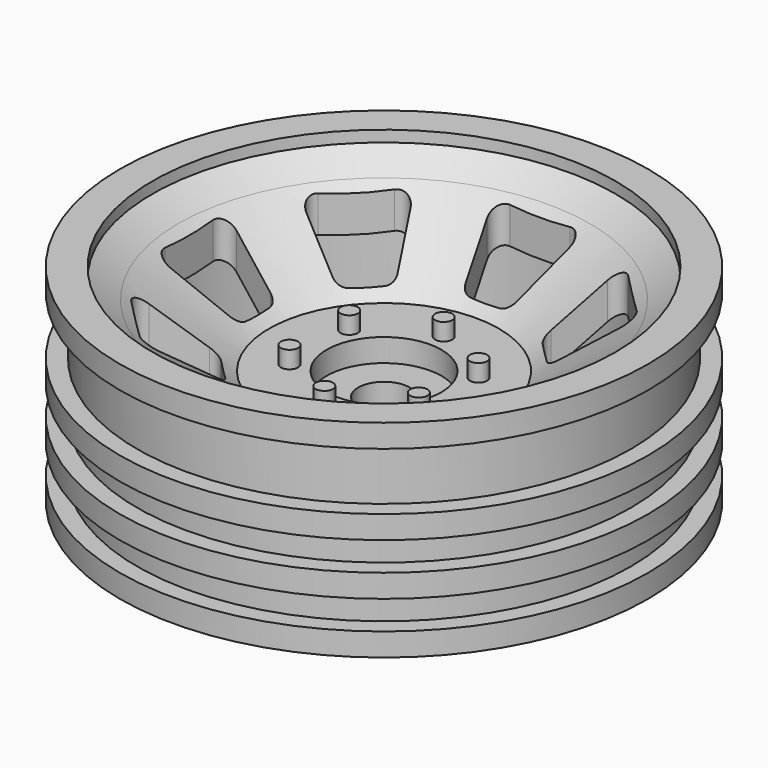
from build123d import *

# Parameters (mm, degrees)
F4_DEPTH   = 43.001
F5_R       = 0.75
F6_DEPTH   = 1.5
F8_DEPTH   = 6
F9_R       = 2.25
F10_DEPTH  = 25
F10_FACE_R = 2.25
F11_DEPTH  = 37.001
F12_R      = 5
F12_R_2    = 2.25
F13_DEPTH  = 2


with BuildPart() as f1:
    # F0 (on Front) → F1 (revolve)
    with BuildSketch(Plane.XZ):
        with BuildLine():
            Line((0, 10), (0, 0))
            Line((0, 0), (10, 0))
            Line((10, 0), (10, 6.548466))
            Line((10, 6.548466), (10, 7.565871))
            Line((10, 7.565871), (11.07605, 7.565871))
            Line((11.07605, 7.565871), (19.185288, 13.166493))
            Line((19.185288, 13.166493), (19.185288, 12.149088))
            Line((19.185288, 12.149088), (19.185288, 0))
            Line((19.185288, 0), (23, 0))
            Line((23, 0), (23, 2))
            Line((23, 2), (21.5, 2))
            Line((21.5, 2), (21.5, 4.5))
            Line((21.5, 4.5), (23, 4.5))
            Line((23, 4.5), (23, 6.5))
            Line((23, 6.5), (21.5, 6.5))
            Line((21.5, 6.5), (21.5, 9))
            Line((21.5, 9), (23, 9))
            Line((23, 9), (23, 11))
            Line((23, 11), (21.5, 11))
            Line((21.5, 11), (21.5, 15.723929))
            ThreePointArc((21.5, 15.723929), (21.580859, 15.919141), (21.776071, 16))
            Line((21.776071, 16), (23, 16))
            Line((23, 16), (23, 18))
            Line((23, 18), (20.165598, 18))
            Line((20.165598, 18), (20.165598, 17.020841))
            Line((20.165598, 17.020841), (17.92377, 15.47253))
            Line((17.92377, 15.47253), (10, 10))
            Line((10, 10), (0, 10))
        make_face()
    revolve(axis=Axis((0, 0, 5), (0, 0, -1)))

    # F3 (on offset) → F4 (cut, through all)
    with BuildSketch(Plane.XY.offset(43)):
        with BuildLine():
            Line((2.612574, 17), (-2.612574, 17))
            ThreePointArc((-2.612574, 17), (-3.423816, 16.58471), (-3.561257, 15.683772))
            Line((-3.561257, 15.683772), (-2.227924, 11.683772))
            ThreePointArc((-2.227924, 11.683772), (-1.863951, 11.188758), (-1.279241, 11))
            Line((-1.279241, 11), (1.279241, 11))
            ThreePointArc((1.279241, 11), (1.863951, 11.188758), (2.227924, 11.683772))
            Line((2.227924, 11.683772), (3.561257, 15.683772))
            ThreePointArc((3.561257, 15.683772), (3.423816, 16.58471), (2.612574, 17))
        make_face()
        with BuildLine():
            Line((-13.608291, 8.571912), (-9.837055, 6.686294))
            ThreePointArc((-9.837055, 6.686294), (-9.229659, 6.593634), (-8.682734, 6.873615))
            Line((-8.682734, 6.873615), (-6.873615, 8.682734))
            ThreePointArc((-6.873615, 8.682734), (-6.593634, 9.229659), (-6.686294, 9.837055))
            Line((-6.686294, 9.837055), (-8.571912, 13.608291))
            ThreePointArc((-8.571912, 13.608291), (-9.306157, 14.148165), (-10.173446, 13.868184))
            Line((-10.173446, 13.868184), (-13.868184, 10.173446))
            ThreePointArc((-13.868184, 10.173446), (-14.148165, 9.306157), (-13.608291, 8.571912))
        make_face()
        with BuildLine():
            Line((-15.683772, -3.561257), (-11.683772, -2.227924))
            ThreePointArc((-11.683772, -2.227924), (-11.188758, -1.863951), (-11, -1.279241))
            Line((-11, -1.279241), (-11, 1.279241))
            ThreePointArc((-11, 1.279241), (-11.188758, 1.863951), (-11.683772, 2.227924))
            Line((-11.683772, 2.227924), (-15.683772, 3.561257))
            ThreePointArc((-15.683772, 3.561257), (-16.58471, 3.423816), (-17, 2.612574))
            Line((-17, 2.612574), (-17, -2.612574))
            ThreePointArc((-17, -2.612574), (-16.58471, -3.423816), (-15.683772, -3.561257))
        make_face()
        with BuildLine():
            Line((-8.571912, -13.608291), (-6.686294, -9.837055))
            ThreePointArc((-6.686294, -9.837055), (-6.593634, -9.229659), (-6.873615, -8.682734))
            Line((-6.873615, -8.682734), (-8.682734, -6.873615))
            ThreePointArc((-8.682734, -6.873615), (-9.229659, -6.593634), (-9.837055, -6.686294))
            Line((-9.837055, -6.686294), (-13.608291, -8.571912))
            ThreePointArc((-13.608291, -8.571912), (-14.148165, -9.306157), (-13.868184, -10.173446))
            Line((-13.868184, -10.173446), (-10.173446, -13.868184))
            ThreePointArc((-10.173446, -13.868184), (-9.306157, -14.148165), (-8.571912, -13.608291))
        make_face()
        with BuildLine():
            Line((3.561257, -15.683772), (2.227924, -11.683772))
            ThreePointArc((2.227924, -11.683772), (1.863951, -11.188758), (1.279241, -11))
            Line((1.279241, -11), (-1.279241, -11))
            ThreePointArc((-1.279241, -11), (-1.863951, -11.188758), (-2.227924, -11.683772))
            Line((-2.227924, -11.683772), (-3.561257, -15.683772))
            ThreePointArc((-3.561257, -15.683772), (-3.423816, -16.58471), (-2.612574, -17))
            Line((-2.612574, -17), (2.612574, -17))
            ThreePointArc((2.612574, -17), (3.423816, -16.58471), (3.561257, -15.683772))
        make_face()
        with BuildLine():
            Line((13.608291, -8.571912), (9.837055, -6.686294))
            ThreePointArc((9.837055, -6.686294), (9.229659, -6.593634), (8.682734, -6.873615))
            Line((8.682734, -6.873615), (6.873615, -8.682734))
            ThreePointArc((6.873615, -8.682734), (6.593634, -9.229659), (6.686294, -9.837055))
            Line((6.686294, -9.837055), (8.571912, -13.608291))
            ThreePointArc((8.571912, -13.608291), (9.306157, -14.148165), (10.173446, -13.868184))
            Line((10.173446, -13.868184), (13.868184, -10.173446))
            ThreePointArc((13.868184, -10.173446), (14.148165, -9.306157), (13.608291, -8.571912))
        make_face()
        with BuildLine():
            Line((15.683772, 3.561257), (11.683772, 2.227924))
            ThreePointArc((11.683772, 2.227924), (11.188758, 1.863951), (11, 1.279241))
            Line((11, 1.279241), (11, -1.279241))
            ThreePointArc((11, -1.279241), (11.188758, -1.863951), (11.683772, -2.227924))
            Line((11.683772, -2.227924), (15.683772, -3.561257))
            ThreePointArc((15.683772, -3.561257), (16.58471, -3.423816), (17, -2.612574))
            Line((17, -2.612574), (17, 2.612574))
            ThreePointArc((17, 2.612574), (16.58471, 3.423816), (15.683772, 3.561257))
        make_face()
        with BuildLine():
            Line((8.571912, 13.608291), (6.686294, 9.837055))
            ThreePointArc((6.686294, 9.837055), (6.593634, 9.229659), (6.873615, 8.682734))
            Line((6.873615, 8.682734), (8.682734, 6.873615))
            ThreePointArc((8.682734, 6.873615), (9.229659, 6.593634), (9.837055, 6.686294))
            Line((9.837055, 6.686294), (13.608291, 8.571912))
            ThreePointArc((13.608291, 8.571912), (14.148165, 9.306157), (13.868184, 10.173446))
            Line((13.868184, 10.173446), (10.173446, 13.868184))
            ThreePointArc((10.173446, 13.868184), (9.306157, 14.148165), (8.571912, 13.608291))
        make_face()
    extrude(amount=-F4_DEPTH, mode=Mode.SUBTRACT)

    # F5 (on face) → F6 (join)
    with BuildSketch(Plane.XY.offset(10)):
        with Locations((0, 6.5)):
            Circle(F5_R)
        with Locations((-5.629165, 3.25)):
            Circle(F5_R)
        with Locations((-5.629165, -3.25)):
            Circle(F5_R)
        with Locations((0, -6.5)):
            Circle(F5_R)
        with Locations((5.629165, -3.25)):
            Circle(F5_R)
        with Locations((5.629165, 3.25)):
            Circle(F5_R)
    extrude(amount=F6_DEPTH)

    # F7 (on face) → F8 (cut)
    with BuildSketch(Plane(origin=(0, 0, 0), x_dir=(1, 0, 0), z_dir=(0, 0, -1))):
        Polygon((0, -7.274613), (6.3, -3.637307), (6.3, 3.637307), (0, 7.274613), (-6.3, 3.637307), (-6.3, -3.637307), align=None)
    extrude(amount=-F8_DEPTH, mode=Mode.SUBTRACT)

    # F9 (on face) → F10 (join)
    with BuildSketch(Plane(origin=(0, 0, 6), x_dir=(1, 0, 0), z_dir=(0, 0, -1))):
        Circle(F9_R)
    extrude(amount=F10_DEPTH)

    # F10_face (on face) → F11 (cut, through all)
    with BuildSketch(Plane(origin=(0, 0, -19), x_dir=(1, 0, 0), z_dir=(0, 0, -1))):
        Circle(F10_FACE_R)
    extrude(amount=-F11_DEPTH, mode=Mode.SUBTRACT)

    # F12 (on face) → F13 (cut)
    with BuildSketch(Plane.XY.offset(10)):
        Circle(F12_R)
        Circle(F12_R_2, mode=Mode.SUBTRACT)
    extrude(amount=-F13_DEPTH, mode=Mode.SUBTRACT)


solid = f1.part
